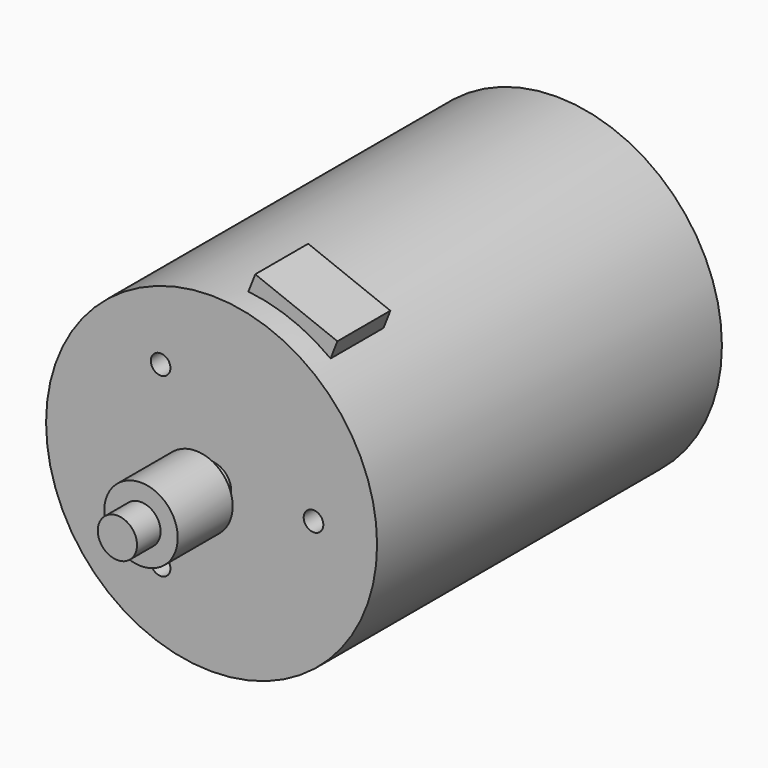
from build123d import *

# Parameters (mm, degrees)
F0_R      = 33.75
F1_DEPTH  = 87.9
F2_R      = 15
F3_DEPTH  = 11
F4_R      = 4
F5_DEPTH  = 24
F6_D      = 4
F6_DEPTH  = 8
F6_TIP    = 1.2017212381
F8_R      = 7.5
F9_DEPTH  = 14
F12_DEPTH = 13.5


with BuildPart() as f1:
    # F0 (on Front) → F1 (new body)
    with BuildSketch(Plane.XZ):
        Circle(F0_R)
    extrude(amount=-F1_DEPTH)

    # F2 (on face) → F3 (join)
    with BuildSketch(Plane(origin=(0, 87.9, 0), x_dir=(-1, 0, 0), z_dir=(0, 1, 0))):
        Circle(F2_R)
    extrude(amount=F3_DEPTH)

    # F4 (on face) → F5 (join)
    with BuildSketch(Plane.XZ):
        Circle(F4_R)
    extrude(amount=F5_DEPTH)

    # F6
    with Locations(Plane.XZ):
        with Locations((20.7846096908, 0), (-10.3923048454, 18), (-10.3923048454, -18)):
            Hole(F6_D / 2, depth=F6_DEPTH)
            with Locations((0, 0, -(F6_DEPTH + F6_TIP / 2))):  # 118° drill point
                Cone(0, F6_D / 2, F6_TIP, mode=Mode.SUBTRACT)

    # F8 (on offset) → F9 (join)
    with BuildSketch(Plane.XZ.offset(4)):
        Circle(F8_R)
    extrude(amount=F9_DEPTH)

    # F11 (on offset) → F12 (join)
    with BuildSketch(Plane.XZ.offset(-5)):
        with BuildLine():
            Line((20.2615004909, 26.9913708036), (21.6578633283, 30.5492955083))
            Line((21.6578633283, 30.5492955083), (4.9021042855, 37.1253535145))
            Line((4.9021042855, 37.1253535145), (3.5057414481, 33.5674288098))
            ThreePointArc((3.5057414481, 33.5674288098), (12.3301087616, 31.4170482052), (20.2615004909, 26.9913708036))
        make_face()
    extrude(amount=-F12_DEPTH)


solid = f1.part
